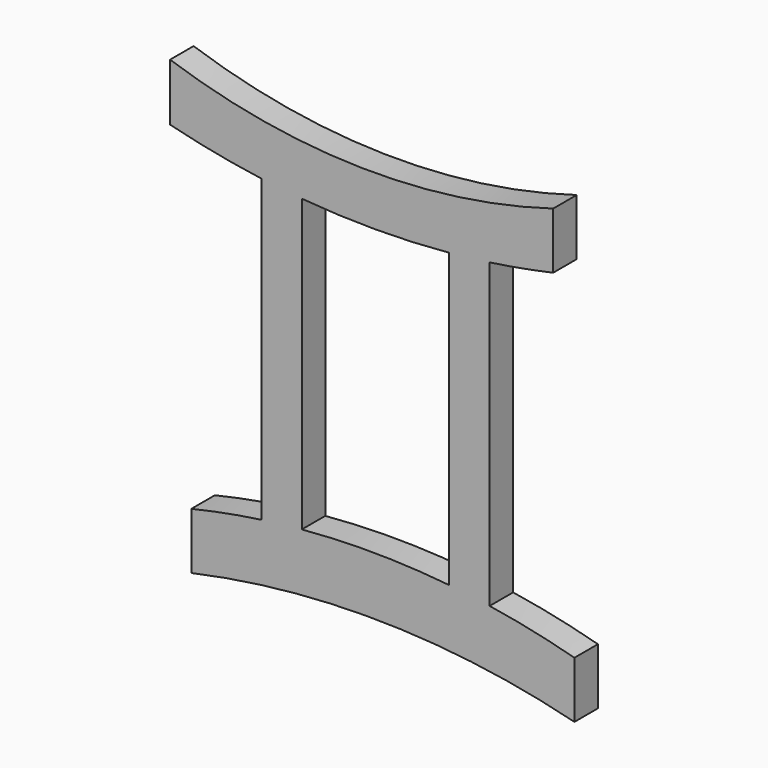
from build123d import *

# Parameters (mm, degrees)
F1_DEPTH = 6.604


with BuildPart() as f1:
    # F0 (on Front) → F1 (new body)
    with BuildSketch(Plane.XZ):
        with BuildLine():
            ThreePointArc((-43.79801, -38.727241), (-0.659432, -34.440726), (42.30799, -40.195004))
            Line((42.30799, -40.195004), (42.30799, -27.495004))
            ThreePointArc((42.30799, -27.495004), (32.83759, -25.203711), (23.254529, -23.442051))
            Line((23.254529, -23.442051), (23.254529, 44.543938))
            ThreePointArc((23.254529, 44.543938), (30.416051, 45.697065), (37.527271, 47.128027))
            Line((37.527271, 47.128027), (37.527271, 59.828027))
            ThreePointArc((37.527271, 59.828027), (-5.639596, 53.881838), (-48.578729, 61.295779))
            Line((-48.578729, 61.295779), (-48.578729, 48.430497))
            ThreePointArc((-48.578729, 48.430497), (-38.380513, 46.14736), (-28.070346, 44.439504))
            Line((-28.070346, 44.439504), (-28.070339, -23.076924))
            ThreePointArc((-28.070339, -23.076924), (-35.967851, -24.372561), (-43.79801, -26.027241))
            Line((-43.79801, -26.027241), (-43.79801, -38.727241))
        make_face()
        with BuildLine():
            Line((-18.977908, -22.038799), (-18.977908, 43.420898))
            ThreePointArc((-18.977908, 43.420898), (-2.406415, 42.716282), (14.162091, 43.487954))
            Line((14.162091, 43.487954), (14.162091, -22.273066))
            ThreePointArc((14.162091, -22.273066), (-2.402361, -21.371167), (-18.977908, -22.038799))
        make_face(mode=Mode.SUBTRACT)
    extrude(amount=F1_DEPTH)


solid = f1.part
